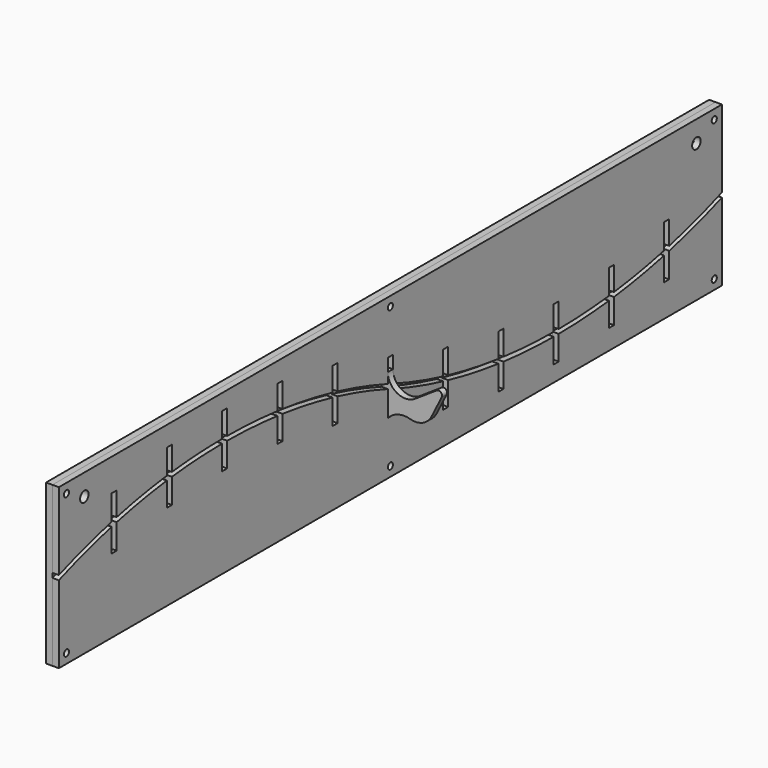
from build123d import *

# Parameters (mm, degrees)
F2_DEPTH = 1.5
F3_W     = 390
F3_H     = 75
F3_R     = 1.5
F3_W_2   = 3
F3_H_2   = 25
F3_R_2   = 2.5
F4_DEPTH = 3
F5_R     = 2.5
F5_R_2   = 1.5
F6_DEPTH = 3


with BuildPart() as f2:
    # F1 (on Front) → F2 (new body, symmetric)
    with BuildSketch(Plane.XZ):
        with BuildLine():
            ThreePointArc((12.8336919575, 12.1280124578), (4.3591212259, 11.7211288299), (0, 19))
            Line((0, 19), (-2, 19))
            ThreePointArc((-2, 19), (-3.7071067812, 18.2928932188), (-3, 20))
            Line((-3, 20), (-3, 25))
            Line((-3, 25), (-6, 25))
            Line((-6, 25), (-6, 0))
            Line((-6, 0), (-3, 0))
            Line((-3, 0), (-3, 3))
            ThreePointArc((-3, 3), (-3.7071067812, 4.7071067812), (-2, 4))
            ThreePointArc((-2, 4), (-1, 5), (0, 4))
            Line((0, 4), (0, 0))
            ThreePointArc((0, 0), (4.8404827684, 3.0219593165), (10.5467317626, 2.9868315905))
            ThreePointArc((10.5467317626, 2.9868315905), (16.3635894762, 3.3381228348), (20.5974568616, 7.3423214014))
            Line((20.5974568616, 7.3423214014), (25.3278538585, 16.779076308))
            ThreePointArc((25.3278538585, 16.779076308), (24.9491642148, 18.7366194684), (22.9599623382, 18.8724758832))
            Line((22.9599623382, 18.8724758832), (12.8336919575, 12.1280124578))
        make_face()
    extrude(amount=F2_DEPTH, both=True)


with BuildPart() as f4:
    # F3 (on face) → F4 (new body)
    with BuildSketch(Plane(origin=(-6, 0, 0), x_dir=(0, -1, 0), z_dir=(-1, 0, 0))):
        with Locations((0, 12.5)):
            Rectangle(F3_W, F3_H)
        with Locations((-190.5, -20.5)):
            Circle(F3_R, mode=Mode.SUBTRACT)
        with Locations((-162.5, 2.6391061397)):
            Rectangle(F3_W_2, F3_H_2, mode=Mode.SUBTRACT)
        with Locations((-130, -3.1098705412)):
            Rectangle(F3_W_2, F3_H_2, mode=Mode.SUBTRACT)
        with Locations((-97.5, -5)):
            Rectangle(F3_W_2, F3_H_2, mode=Mode.SUBTRACT)
        with Locations((-65, -3.1098705412)):
            Rectangle(F3_W_2, F3_H_2, mode=Mode.SUBTRACT)
        with Locations((-32.5, 2.6391061397)):
            Rectangle(F3_W_2, F3_H_2, mode=Mode.SUBTRACT)
        with Locations((0, -20.5)):
            Circle(F3_R, mode=Mode.SUBTRACT)
        with Locations((190.5, -20.5)):
            Circle(F3_R, mode=Mode.SUBTRACT)
        with Locations((-180, 40)):
            Circle(F3_R_2, mode=Mode.SUBTRACT)
        with Locations((-190.5, 45.5)):
            Circle(F3_R, mode=Mode.SUBTRACT)
        with Locations((0, 12.5)):
            Rectangle(F3_W_2, F3_H_2, mode=Mode.SUBTRACT)
        with Locations((32.5, 22.3608938603)):
            Rectangle(F3_W_2, F3_H_2, mode=Mode.SUBTRACT)
        with Locations((65, 28.1098705412)):
            Rectangle(F3_W_2, F3_H_2, mode=Mode.SUBTRACT)
        with Locations((97.5, 30)):
            Rectangle(F3_W_2, F3_H_2, mode=Mode.SUBTRACT)
        with Locations((130, 28.1098705412)):
            Rectangle(F3_W_2, F3_H_2, mode=Mode.SUBTRACT)
        with Locations((162.5, 22.3608938603)):
            Rectangle(F3_W_2, F3_H_2, mode=Mode.SUBTRACT)
        with Locations((0, 45.5)):
            Circle(F3_R, mode=Mode.SUBTRACT)
        with Locations((180, 40)):
            Circle(F3_R_2, mode=Mode.SUBTRACT)
        with Locations((190.5, 45.5)):
            Circle(F3_R, mode=Mode.SUBTRACT)
    extrude(amount=-F4_DEPTH)


with BuildPart() as f6:
    # F5 (on face) → F6 (new body)
    with BuildSketch(Plane.YZ.offset(-3)):
        with BuildLine():
            ThreePointArc((164, 4.0304702551), (179.6385146053, 8.3483832934), (195, 13.5668388631))
            Line((195, 13.5668388631), (195, 50))
            Line((195, 50), (-195, 50))
            Line((-195, 50), (-195, 13.5663154347))
            ThreePointArc((-195, 13.5663154347), (-179.6363635315, 18.7440641683), (-164, 23.0282844003))
            Line((-164, 23.0282844003), (-164, 29.8608938603))
            Line((-164, 29.8608938603), (-164, 34.8608938603))
            Line((-164, 34.8608938603), (-161, 34.8608938603))
            Line((-161, 34.8608938603), (-161, 29.8608938603))
            Line((-161, 29.8608938603), (-161, 23.7406350192))
            ThreePointArc((-161, 23.7406350192), (-146.3192170476, 26.7322396237), (-131.5, 28.9381163879))
            Line((-131.5, 28.9381163879), (-131.5, 35.6098705412))
            Line((-131.5, 35.6098705412), (-131.5, 40.6098705412))
            Line((-131.5, 40.6098705412), (-128.5, 40.6098705412))
            Line((-128.5, 40.6098705412), (-128.5, 35.6098705412))
            Line((-128.5, 35.6098705412), (-128.5, 29.286991422))
            ThreePointArc((-128.5, 29.286991422), (-113.7724515319, 30.5290425594), (-99, 30.9960014948))
            Line((-99, 30.9960014948), (-99, 37.5))
            Line((-99, 37.5), (-99, 42.5))
            Line((-99, 42.5), (-96, 42.5))
            Line((-96, 42.5), (-96, 37.5))
            Line((-96, 37.5), (-96, 30.9960014948))
            ThreePointArc((-96, 30.9960014948), (-81.2275484681, 30.5290425594), (-66.5, 29.286991422))
            Line((-66.5, 29.286991422), (-66.5, 35.6098705412))
            Line((-66.5, 35.6098705412), (-66.5, 40.6098705412))
            Line((-66.5, 40.6098705412), (-63.5, 40.6098705412))
            Line((-63.5, 40.6098705412), (-63.5, 35.6098705412))
            Line((-63.5, 35.6098705412), (-63.5, 28.9381163879))
            ThreePointArc((-63.5, 28.9381163879), (-48.6807829524, 26.7322396237), (-34, 23.7406350192))
            Line((-34, 23.7406350192), (-34, 29.8608938603))
            Line((-34, 29.8608938603), (-34, 34.8608938603))
            Line((-34, 34.8608938603), (-31, 34.8608938603))
            Line((-31, 34.8608938603), (-31, 29.8608938603))
            Line((-31, 29.8608938603), (-31, 23.0282844003))
            ThreePointArc((-31, 23.0282844003), (-16.1278831508, 18.9761459064), (-1.5, 14.1156191369))
            Line((-1.5, 14.1156191369), (-1.5, 20))
            Line((-1.5, 20), (-1.5, 25))
            Line((-1.5, 25), (1.5, 25))
            Line((1.5, 25), (1.5, 20))
            Line((1.5, 20), (1.5, 13.013068662))
            ThreePointArc((1.5, 13.013068662), (16.1259607213, 8.1144086308), (31, 4.0304702551))
            Line((31, 4.0304702551), (31, 10.1391061397))
            Line((31, 10.1391061397), (31, 15.1391061397))
            Line((31, 15.1391061397), (34, 15.1391061397))
            Line((34, 15.1391061397), (34, 10.1391061397))
            Line((34, 10.1391061397), (34, 3.3127287162))
            ThreePointArc((34, 3.3127287162), (48.6797546695, 0.2989728073), (63.5, -1.9232445945))
            Line((63.5, -1.9232445945), (63.5, 4.3901294588))
            Line((63.5, 4.3901294588), (63.5, 9.3901294588))
            Line((63.5, 9.3901294588), (66.5, 9.3901294588))
            Line((66.5, 9.3901294588), (66.5, 4.3901294588))
            Line((66.5, 4.3901294588), (66.5, -2.2746515492))
            ThreePointArc((66.5, -2.2746515492), (81.2272240607, -3.5256461933), (96, -3.9959728679))
            Line((96, -3.9959728679), (96, 2.5))
            Line((96, 2.5), (96, 7.5))
            Line((96, 7.5), (99, 7.5))
            Line((99, 7.5), (99, 2.5))
            Line((99, 2.5), (99, -3.9959728679))
            ThreePointArc((99, -3.9959728679), (113.7727759393, -3.5256461933), (128.5, -2.2746515492))
            Line((128.5, -2.2746515492), (128.5, 4.3901294588))
            Line((128.5, 4.3901294588), (128.5, 9.3901294588))
            Line((128.5, 9.3901294588), (131.5, 9.3901294588))
            Line((131.5, 9.3901294588), (131.5, 4.3901294588))
            Line((131.5, 4.3901294588), (131.5, -1.9232445945))
            ThreePointArc((131.5, -1.9232445945), (146.3202453305, 0.2989728073), (161, 3.3127287162))
            Line((161, 3.3127287162), (161, 10.1391061397))
            Line((161, 10.1391061397), (161, 15.1391061397))
            Line((161, 15.1391061397), (164, 15.1391061397))
            Line((164, 15.1391061397), (164, 10.1391061397))
            Line((164, 10.1391061397), (164, 4.0304702551))
        make_face()
        with Locations((-180, 40)):
            Circle(F5_R, mode=Mode.SUBTRACT)
        with Locations((-190.5, 45.5)):
            Circle(F5_R_2, mode=Mode.SUBTRACT)
        with Locations((0, 45.5)):
            Circle(F5_R_2, mode=Mode.SUBTRACT)
        with Locations((180, 40)):
            Circle(F5_R, mode=Mode.SUBTRACT)
        with Locations((190.5, 45.5)):
            Circle(F5_R_2, mode=Mode.SUBTRACT)
    extrude(amount=F6_DEPTH)


with BuildPart() as f6b:
    # F5 (on face) → F6, piece 2 (new body)
    with BuildSketch(Plane.YZ.offset(-3)):
        with BuildLine():
            Line((195, -25), (195, 11.4336845653))
            ThreePointArc((195, 11.4336845653), (179.6363635315, 6.2559358317), (164, 1.9717155997))
            Line((164, 1.9717155997), (164, -4.8608938603))
            Line((164, -4.8608938603), (164, -9.8608938603))
            Line((164, -9.8608938603), (161, -9.8608938603))
            Line((161, -9.8608938603), (161, -4.8608938603))
            Line((161, -4.8608938603), (161, 1.2593649808))
            ThreePointArc((161, 1.2593649808), (146.3192170476, -1.7322396237), (131.5, -3.9381163879))
            Line((131.5, -3.9381163879), (131.5, -10.6098705412))
            Line((131.5, -10.6098705412), (131.5, -15.6098705412))
            Line((131.5, -15.6098705412), (128.5, -15.6098705412))
            Line((128.5, -15.6098705412), (128.5, -10.6098705412))
            Line((128.5, -10.6098705412), (128.5, -4.286991422))
            ThreePointArc((128.5, -4.286991422), (113.7724515319, -5.5290425594), (99, -5.9960014948))
            Line((99, -5.9960014948), (99, -12.5))
            Line((99, -12.5), (99, -17.5))
            Line((99, -17.5), (96, -17.5))
            Line((96, -17.5), (96, -12.5))
            Line((96, -12.5), (96, -5.9960014948))
            ThreePointArc((96, -5.9960014948), (81.2275484681, -5.5290425594), (66.5, -4.286991422))
            Line((66.5, -4.286991422), (66.5, -10.6098705412))
            Line((66.5, -10.6098705412), (66.5, -15.6098705412))
            Line((66.5, -15.6098705412), (63.5, -15.6098705412))
            Line((63.5, -15.6098705412), (63.5, -10.6098705412))
            Line((63.5, -10.6098705412), (63.5, -3.9381163879))
            ThreePointArc((63.5, -3.9381163879), (48.6807829524, -1.7322396237), (34, 1.2593649808))
            Line((34, 1.2593649808), (34, -4.8608938603))
            Line((34, -4.8608938603), (34, -9.8608938603))
            Line((34, -9.8608938603), (31, -9.8608938603))
            Line((31, -9.8608938603), (31, -4.8608938603))
            Line((31, -4.8608938603), (31, 1.9717155997))
            ThreePointArc((31, 1.9717155997), (16.1278831508, 6.0238540936), (1.5, 10.8843808631))
            Line((1.5, 10.8843808631), (1.5, 5))
            Line((1.5, 5), (1.5, 0))
            Line((1.5, 0), (-1.5, 0))
            Line((-1.5, 0), (-1.5, 5))
            Line((-1.5, 5), (-1.5, 11.986931338))
            ThreePointArc((-1.5, 11.986931338), (-16.1259607213, 16.8855913692), (-31, 20.9695297449))
            Line((-31, 20.9695297449), (-31, 14.8608938603))
            Line((-31, 14.8608938603), (-31, 9.8608938603))
            Line((-31, 9.8608938603), (-34, 9.8608938603))
            Line((-34, 9.8608938603), (-34, 14.8608938603))
            Line((-34, 14.8608938603), (-34, 21.6872712838))
            ThreePointArc((-34, 21.6872712838), (-48.6797546695, 24.7010271927), (-63.5, 26.9232445945))
            Line((-63.5, 26.9232445945), (-63.5, 20.6098705412))
            Line((-63.5, 20.6098705412), (-63.5, 15.6098705412))
            Line((-63.5, 15.6098705412), (-66.5, 15.6098705412))
            Line((-66.5, 15.6098705412), (-66.5, 20.6098705412))
            Line((-66.5, 20.6098705412), (-66.5, 27.2746515492))
            ThreePointArc((-66.5, 27.2746515492), (-81.2272240607, 28.5256461933), (-96, 28.9959728679))
            Line((-96, 28.9959728679), (-96, 22.5))
            Line((-96, 22.5), (-96, 17.5))
            Line((-96, 17.5), (-99, 17.5))
            Line((-99, 17.5), (-99, 22.5))
            Line((-99, 22.5), (-99, 28.9959728679))
            ThreePointArc((-99, 28.9959728679), (-113.7727759393, 28.5256461933), (-128.5, 27.2746515492))
            Line((-128.5, 27.2746515492), (-128.5, 20.6098705412))
            Line((-128.5, 20.6098705412), (-128.5, 15.6098705412))
            Line((-128.5, 15.6098705412), (-131.5, 15.6098705412))
            Line((-131.5, 15.6098705412), (-131.5, 20.6098705412))
            Line((-131.5, 20.6098705412), (-131.5, 26.9232445945))
            ThreePointArc((-131.5, 26.9232445945), (-146.3202453305, 24.7010271927), (-161, 21.6872712838))
            Line((-161, 21.6872712838), (-161, 14.8608938603))
            Line((-161, 14.8608938603), (-161, 9.8608938603))
            Line((-161, 9.8608938603), (-164, 9.8608938603))
            Line((-164, 9.8608938603), (-164, 14.8608938603))
            Line((-164, 14.8608938603), (-164, 20.9695297449))
            ThreePointArc((-164, 20.9695297449), (-179.6385146053, 16.6516167066), (-195, 11.4331611369))
            Line((-195, 11.4331611369), (-195, -25))
            Line((-195, -25), (195, -25))
        make_face()
        with Locations((-190.5, -20.5)):
            Circle(F5_R_2, mode=Mode.SUBTRACT)
        with Locations((0, -20.5)):
            Circle(F5_R_2, mode=Mode.SUBTRACT)
        with Locations((190.5, -20.5)):
            Circle(F5_R_2, mode=Mode.SUBTRACT)
    extrude(amount=F6_DEPTH)


solid = Compound([f2.part, f4.part, f6.part, f6b.part])
